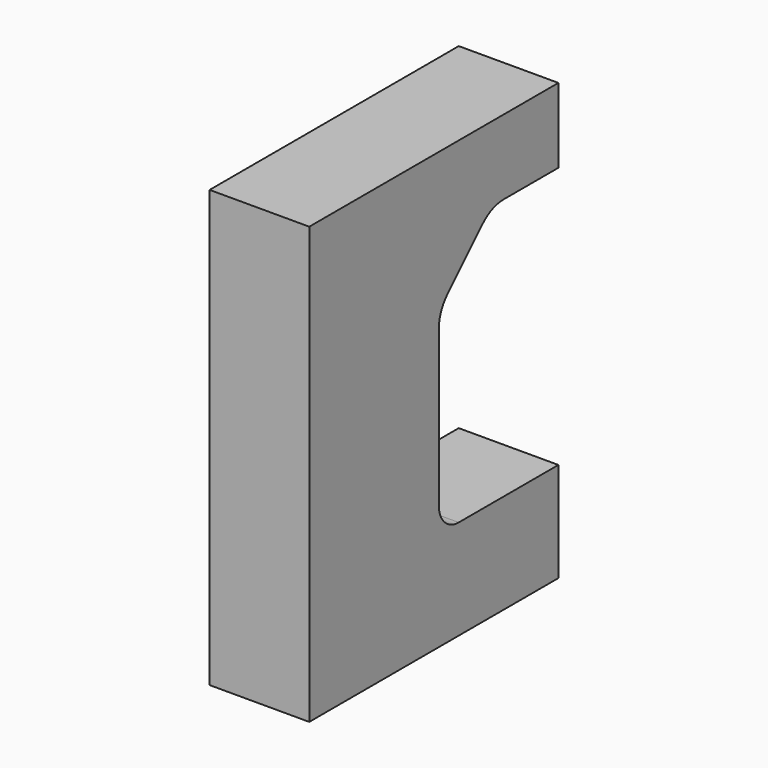
from build123d import *

# Parameters (mm, degrees)
F1_DEPTH = 101.6


with BuildPart() as f1:
    # F0 (on Right) → F1 (new body, symmetric)
    with BuildSketch(Plane.YZ):
        with BuildLine():
            Line((317.5, 444.5), (-317.5, 444.5))
            Line((-317.5, 444.5), (-317.5, -444.5))
            Line((-317.5, -444.5), (317.5, -444.5))
            Line((317.5, -444.5), (317.5, -241.3))
            Line((317.5, -241.3), (63.5, -241.3))
            ThreePointArc((63.5, -241.3), (27.578976, -226.421024), (12.7, -190.5))
            Line((12.7, -190.5), (12.7, 126.562471))
            ThreePointArc((12.7, 126.562471), (18.50038, 155.722949), (35.018463, 180.444008))
            Line((35.018463, 180.444008), (124.355992, 269.781537))
            ThreePointArc((124.355992, 269.781537), (149.077051, 286.29962), (178.237529, 292.1))
            Line((178.237529, 292.1), (317.5, 292.1))
            Line((317.5, 292.1), (317.5, 444.5))
        make_face()
    extrude(amount=F1_DEPTH, both=True)


solid = f1.part
